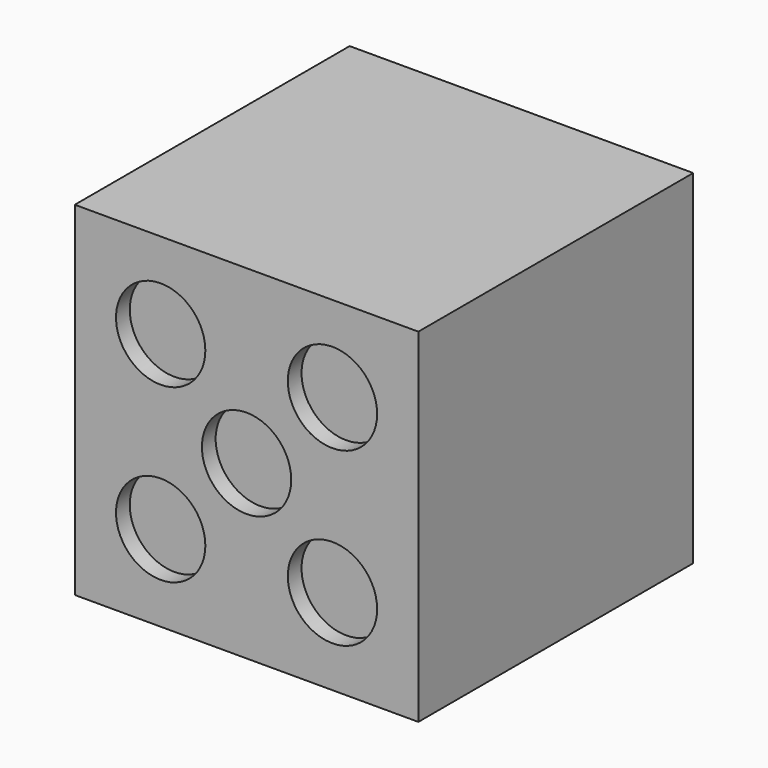
from build123d import *

# Parameters (mm, degrees)
F0_W       = 20
F0_H       = 20
F1_DEPTH   = 20
F2_R       = 2.6
F1_FACE1_W = 20
F1_FACE1_H = 20
F3_DEPTH   = 1


with BuildPart() as f1:
    # F0 (on Front) → F1 (new body)
    with BuildSketch(Plane.XZ):
        with Locations((10, 10)):
            Rectangle(F0_W, F0_H)
    extrude(amount=F1_DEPTH)

    # F2 (on face) + F1_face1 (on face) → F3 (cut)
    with BuildSketch(Plane.XZ.offset(20)):
        with Locations((10, 10)):
            Circle(F2_R)
        with Locations((5, 15)):
            Circle(F2_R)
        with Locations((15, 5)):
            Circle(F2_R)
        with Locations((15, 15)):
            Circle(F2_R)
        with Locations((5, 5)):
            Circle(F2_R)
    with BuildSketch(Plane(origin=(10, 0, 10), x_dir=(1, 0, 0), z_dir=(0, 1, 0))):
        Rectangle(F1_FACE1_W, F1_FACE1_H)
    extrude(amount=-F3_DEPTH, dir=(0, -1, 0), mode=Mode.SUBTRACT)


solid = f1.part
